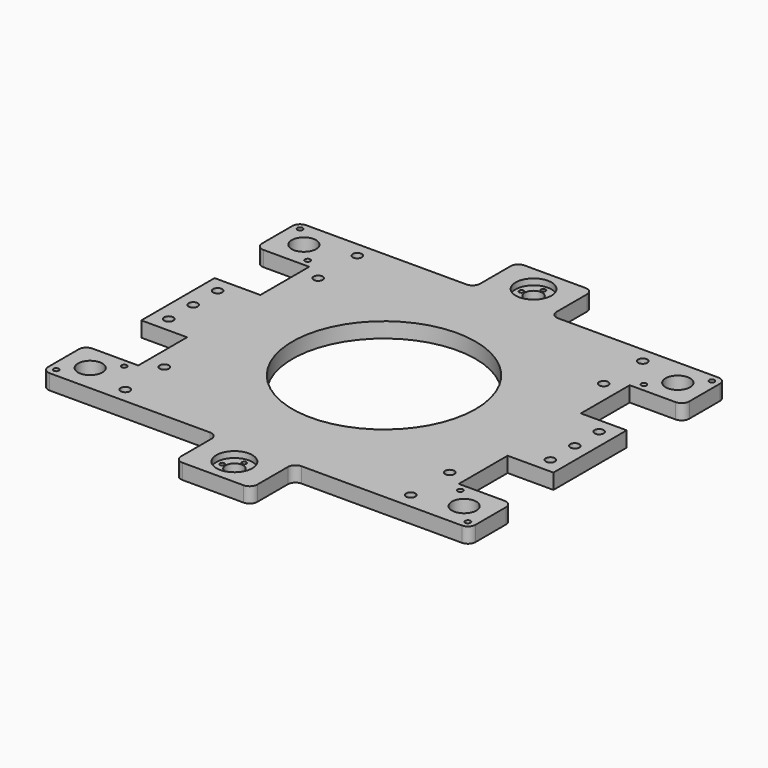
from build123d import *

# Parameters (mm, degrees)
SKETCH_R     = 60
SKETCH_R_2   = 3
SKETCH_R_3   = 8
SKETCH_R_4   = 1.75
SKETCH_R_5   = 5.75
SKETCH_R_6   = 1.5
PAD_DEPTH    = 10
SKETCH001_R  = 11.75
POCKET_DEPTH = 4
FILLET_R     = 5


with BuildPart() as part:
    # Sketch → Pad (new body)
    with BuildSketch(Plane.XY):
        Polygon((-105, 70), (-105, 30), (-135, 30), (-135, -30), (-105, -30), (-105, -70), (-140, -70), (-140, -105), (-105, -105), (-25, -105), (-25, -140), (25, -140), (25, -105), (105, -105), (140, -105), (140, -70), (105, -70), (105, -30), (135, -30), (135, 30), (105, 30), (105, 70), (140, 70), (140, 105), (105, 105), (25, 105), (25, 140), (-25, 140), (-25, 105), (-105, 105), (-140, 105), (-140, 70), align=None)
        Circle(SKETCH_R, mode=Mode.SUBTRACT)
        with Locations((93.5, 95)):
            Circle(SKETCH_R_2, mode=Mode.SUBTRACT)
        with Locations((93.5, 63)):
            Circle(SKETCH_R_2, mode=Mode.SUBTRACT)
        with Locations((93.5, -63)):
            Circle(SKETCH_R_2, mode=Mode.SUBTRACT)
        with Locations((93.5, -95)):
            Circle(SKETCH_R_2, mode=Mode.SUBTRACT)
        with Locations((-93.5, -63)):
            Circle(SKETCH_R_2, mode=Mode.SUBTRACT)
        with Locations((-93.5, -95)):
            Circle(SKETCH_R_2, mode=Mode.SUBTRACT)
        with Locations((-93.5, 95)):
            Circle(SKETCH_R_2, mode=Mode.SUBTRACT)
        with Locations((-93.5, 63)):
            Circle(SKETCH_R_2, mode=Mode.SUBTRACT)
        with Locations((122.5, 87.5)):
            Circle(SKETCH_R_3, mode=Mode.SUBTRACT)
        with Locations((122.5, -87.5)):
            Circle(SKETCH_R_3, mode=Mode.SUBTRACT)
        with Locations((-122.5, -87.5)):
            Circle(SKETCH_R_3, mode=Mode.SUBTRACT)
        with Locations((-122.5, 87.5)):
            Circle(SKETCH_R_3, mode=Mode.SUBTRACT)
        with Locations((125, 20)):
            Circle(SKETCH_R_2, mode=Mode.SUBTRACT)
        with Locations((125, 0)):
            Circle(SKETCH_R_2, mode=Mode.SUBTRACT)
        with Locations((125, -20)):
            Circle(SKETCH_R_2, mode=Mode.SUBTRACT)
        with Locations((-125, 20)):
            Circle(SKETCH_R_2, mode=Mode.SUBTRACT)
        with Locations((-125, 0)):
            Circle(SKETCH_R_2, mode=Mode.SUBTRACT)
        with Locations((-125, -20)):
            Circle(SKETCH_R_2, mode=Mode.SUBTRACT)
        with Locations((110.124738, -75.124738)):
            Circle(SKETCH_R_4, mode=Mode.SUBTRACT)
        with Locations((134.873476, -99.873476)):
            Circle(SKETCH_R_4, mode=Mode.SUBTRACT)
        with Locations((110.124738, 75.124738)):
            Circle(SKETCH_R_4, mode=Mode.SUBTRACT)
        with Locations((134.873476, 99.873476)):
            Circle(SKETCH_R_4, mode=Mode.SUBTRACT)
        with Locations((-110.124738, 75.124738)):
            Circle(SKETCH_R_4, mode=Mode.SUBTRACT)
        with Locations((-134.873476, 99.873476)):
            Circle(SKETCH_R_4, mode=Mode.SUBTRACT)
        with Locations((-110.124738, -75.124738)):
            Circle(SKETCH_R_4, mode=Mode.SUBTRACT)
        with Locations((-134.873476, -99.873476)):
            Circle(SKETCH_R_4, mode=Mode.SUBTRACT)
        with Locations((0, 122.5)):
            Circle(SKETCH_R_5, mode=Mode.SUBTRACT)
        with Locations((0, -122.5)):
            Circle(SKETCH_R_5, mode=Mode.SUBTRACT)
        with Locations((8, -122.5)):
            Circle(SKETCH_R_6, mode=Mode.SUBTRACT)
        with Locations((0, -114.5)):
            Circle(SKETCH_R_6, mode=Mode.SUBTRACT)
        with Locations((-8, -122.5)):
            Circle(SKETCH_R_6, mode=Mode.SUBTRACT)
        with Locations((0, -130.5)):
            Circle(SKETCH_R_6, mode=Mode.SUBTRACT)
        with Locations((0, 130.5)):
            Circle(SKETCH_R_6, mode=Mode.SUBTRACT)
        with Locations((8, 122.5)):
            Circle(SKETCH_R_6, mode=Mode.SUBTRACT)
        with Locations((0, 114.5)):
            Circle(SKETCH_R_6, mode=Mode.SUBTRACT)
        with Locations((-8, 122.5)):
            Circle(SKETCH_R_6, mode=Mode.SUBTRACT)
    extrude(amount=PAD_DEPTH)

    # Sketch001 (on Face63 of Pad) → Pocket (cut)
    with BuildSketch(Plane.XY.offset(10)):
        with Locations((0, 122.5)):
            Circle(SKETCH001_R)
        with Locations((0, -122.5)):
            Circle(SKETCH001_R)
    extrude(amount=-POCKET_DEPTH, mode=Mode.SUBTRACT)

    # Fillet
    fillet_edges = [part.edges().sort_by_distance(p)[0] for p in [
        (25, -105, 5),
        (25, -140, 5),
        (-25, -140, 5),
        (-25, -105, 5),
        (-140, -105, 5),
        (-140, -70, 5),
        (-140, 70, 5),
        (-140, 105, 5),
        (-25, 105, 5),
        (-25, 140, 5),
        (25, 140, 5),
        (25, 105, 5),
        (140, 105, 5),
        (140, 70, 5),
        (140, -70, 5),
        (140, -105, 5),
    ]]
    fillet(fillet_edges, radius=FILLET_R)


solid = part.part
